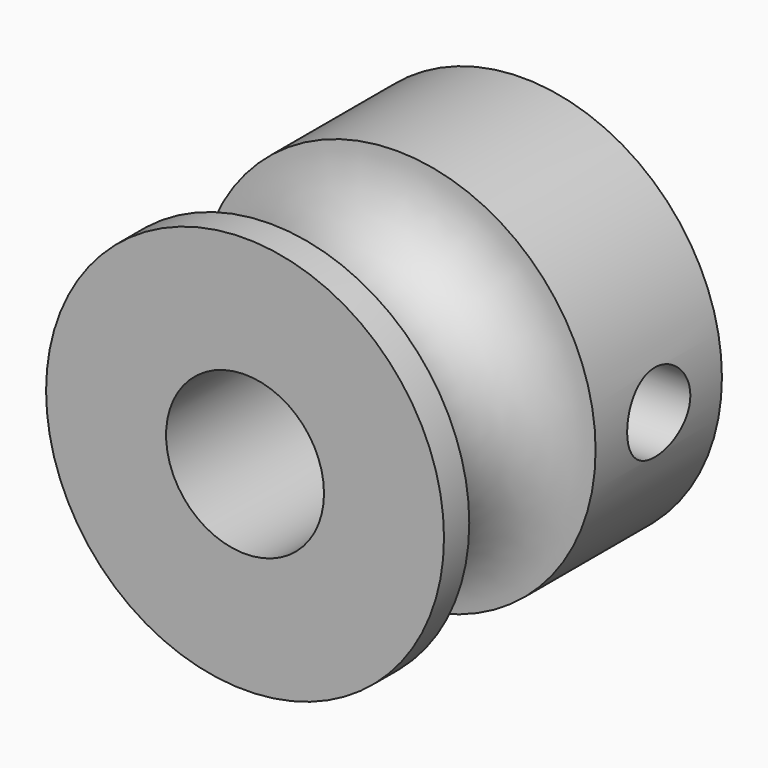
from build123d import *

# Parameters (mm, degrees)
F0_R          = 6.3
F0_R_2        = 2.5
F1_DEPTH      = 5
F1_DEPTH_BACK = 6
F6_D          = 2.5
F6_DEPTH      = 5
F6_START      = 0.1252531
F6_TIP        = 0.7510757738


with BuildPart() as f1:
    # F0 (on Front) → F1 (new body, two sides)
    with BuildSketch(Plane.XZ) as f1_sk:
        Circle(F0_R)
        Circle(F0_R_2, mode=Mode.SUBTRACT)
    extrude(amount=-F1_DEPTH)
    extrude(f1_sk.sketch, amount=F1_DEPTH_BACK)

    # F2 (on Right) → F3 (revolve, cut)
    with BuildSketch(Plane.YZ):
        with BuildLine():
            ThreePointArc((0, 6.3), (-2.5, 8.8), (-5, 6.3))
            Line((-5, 6.3), (0, 6.3))
        make_face()
        with BuildLine():
            Line((0, 6.3), (-5, 6.3))
            ThreePointArc((-5, 6.3), (-2.5, 3.8), (0, 6.3))
        make_face()
    revolve(axis=Axis((0, -6, 0), (0, -1, 0)), mode=Mode.SUBTRACT)

    # F6
    # its depths count from where the whole tool has entered the part; down to there all is cleared
    with Locations(Plane.YZ.offset(6.3).offset(-F6_START)):
        with Locations((2.5, 0)):
            Hole(F6_D / 2, depth=F6_DEPTH)
            with Locations((0, 0, -(F6_DEPTH + F6_TIP / 2))):  # 118° drill point
                Cone(0, F6_D / 2, F6_TIP, mode=Mode.SUBTRACT)


solid = f1.part
